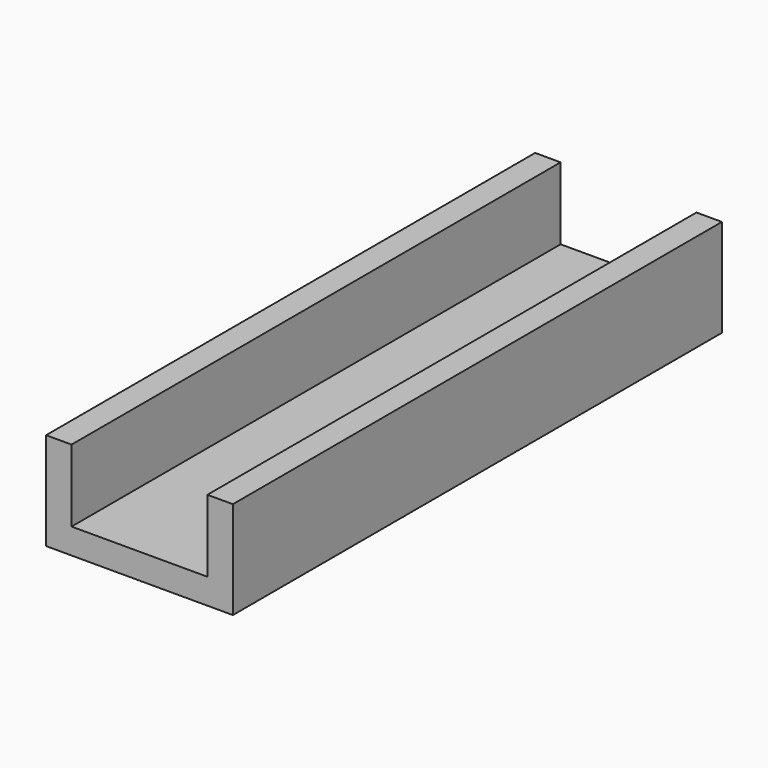
from build123d import *

# Parameters (mm, degrees)
F0_W     = 139.7
F0_H     = 19.05
F1_DEPTH = 457.2
F2_W     = 19.05
F2_H     = 457.2
F3_DEPTH = 53.975
F4_W     = 19.05
F4_H     = 457.2
F5_DEPTH = 53.975


with BuildPart() as f1:
    # F0 (on Front) → F1 (new body)
    with BuildSketch(Plane.XZ):
        with Locations((69.85, 9.525)):
            Rectangle(F0_W, F0_H)
    extrude(amount=F1_DEPTH)

    # F2 (on face) → F3 (join)
    with BuildSketch(Plane.XY.offset(19.05)):
        with Locations((130.175, -228.6)):
            Rectangle(F2_W, F2_H)
    extrude(amount=F3_DEPTH)

    # F4 (on face) → F5 (join)
    with BuildSketch(Plane.XY.offset(19.05)):
        with Locations((9.525, -228.6)):
            Rectangle(F4_W, F4_H)
    extrude(amount=F5_DEPTH)


solid = f1.part
